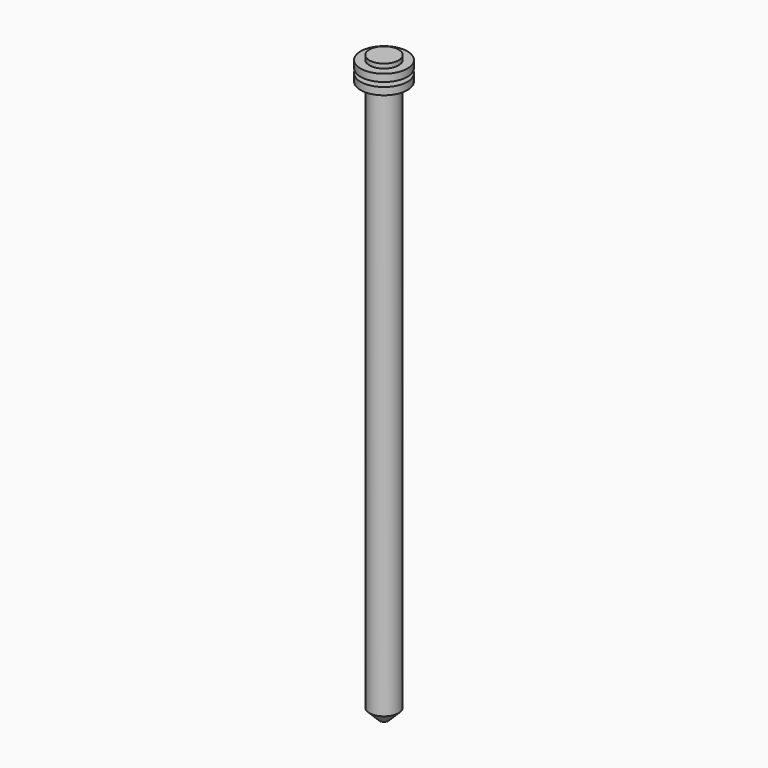
from build123d import *

# Parameters (mm, degrees)
F2_SIZE = 7


with BuildPart() as f1:
    # F0 (on Right) → F1 (revolve)
    with BuildSketch(Plane.YZ):
        Polygon((-10, -256.556808), (0, -256.556808), (0, 143.443192), (-10, 143.443192), (-10, 140.443192), (-16, 140.443192), (-16, 135.443192), (-10, 135.443192), (-10, 132.443192), (-16, 132.443192), (-16, 127.443192), (-10, 127.443192), align=None)
    revolve(axis=Axis((0, 0, -56.556808), (0, 0, 1)))

    # F2
    f2_edges = [f1.edges().sort_by_distance(p)[0] for p in [
        (0, 10, -256.556808),
    ]]
    chamfer(f2_edges, length=F2_SIZE)


solid = f1.part
